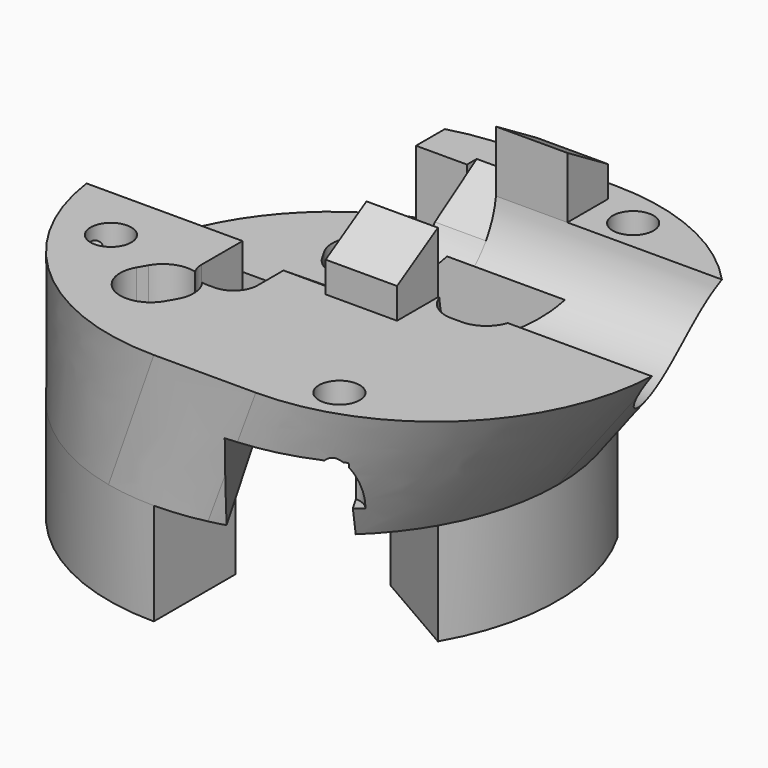
from build123d import *

# Parameters (mm, degrees)
SKETCH093_R           = 22
PAD013_DEPTH          = 10
POLARPATTERN016_COUNT = 3
POCKET057_DEPTH       = 20
POLARPATTERN017_COUNT = 3
SKETCH097_R           = 1.5
POCKET058_DEPTH       = 5
POLARPATTERN018_COUNT = 3
POCKET059_DEPTH       = 40
SKETCH099_W           = 29.059151
SKETCH099_H           = 10
POCKET060_DEPTH       = 8
POLARPATTERN_COUNT    = 3
SKETCH100_W           = 21.271721
SKETCH100_H           = 30.362088
POCKET061_DEPTH       = 8
POCKET062_DEPTH       = 5
SKETCH102_R           = 8
POCKET063_DEPTH       = 33.001
PAD014_DEPTH          = 7
SKETCH104_R           = 1.5
POCKET064_DEPTH       = 5
SKETCH105_R           = 1.5
POCKET065_DEPTH       = 6
SKETCH113_R           = 2
POCKET073_DEPTH       = 10


with BuildPart() as part:
    # Sketch092 → AdditiveLoft007 section 0
    with BuildSketch(Plane.XY.offset(28)):
        with BuildLine():
            ThreePointArc((0, 22), (-22, 0), (0, -22))
            Line((0, -22), (10, -22))
            ThreePointArc((10, -22), (32, 0), (10, 22))
            Line((0, 22), (10, 22))
        make_face()
    # Sketch093 → AdditiveLoft007 section 1
    with BuildSketch(Plane.XY.offset(15)):
        Circle(SKETCH093_R)
    loft()

    # Sketch095 → Pad013 (new body)
    with BuildSketch(Plane(origin=(0, 0, 15), x_dir=(1, 0, 0), z_dir=(0, 0, -1))):
        with BuildLine():
            ThreePointArc((-0.000809, 22), (-11.000386, 19.052336), (-19.0526, 10.999929))
            Line((-19.0526, 10.999929), (-10.392346, 5.999929))
            ThreePointArc((-0.000809, 12), (-6.000386, 10.392082), (-10.392346, 5.999929))
            Line((-0.000809, 22), (-0.000809, 12))
        make_face()
    pad013 = extrude(amount=PAD013_DEPTH)

    # PolarPattern016: Pad013 ×3 about axis
    polarpattern016_axis = Axis((0, 0, 15), (0, 0, -1))
    for i in range(1, POLARPATTERN016_COUNT):
        add(pad013.rotate(polarpattern016_axis, i * 360 / POLARPATTERN016_COUNT))

    # Sketch096 (on Face1 of PolarPattern016) → Pocket057 (cut)
    with BuildSketch(Plane.XY.offset(28)):
        with BuildLine():
            ThreePointArc((14, 3), (11, 0), (14, -3))
            Line((14, -3), (15, -3))
            ThreePointArc((15, -3), (18, 0), (15, 3))
            Line((14, 3), (15, 3))
        make_face()
    pocket057 = extrude(amount=-POCKET057_DEPTH, mode=Mode.SUBTRACT)

    # PolarPattern017: Pocket057 ×3 about axis
    polarpattern017_axis = Axis((0, 0, 28), (0, 0, 1))
    for i in range(1, POLARPATTERN017_COUNT):
        add(pocket057.rotate(polarpattern017_axis, i * 360 / POLARPATTERN017_COUNT), mode=Mode.SUBTRACT)

    # Sketch097 (on Face25 of PolarPattern017) → Pocket058 (cut)
    with BuildSketch(Plane.XY.offset(8)):
        with Locations((15, 0)):
            Circle(SKETCH097_R)
    pocket058 = extrude(amount=-POCKET058_DEPTH, mode=Mode.SUBTRACT)

    # PolarPattern018: Pocket058 ×3 about axis
    polarpattern018_axis = Axis((0, 0, 8), (0, 0, 1))
    for i in range(1, POLARPATTERN018_COUNT):
        add(pocket058.rotate(polarpattern018_axis, i * 360 / POLARPATTERN018_COUNT), mode=Mode.SUBTRACT)

    # Sketch098 (on Face1 of PolarPattern018) → Pocket059 (cut)
    with BuildSketch(Plane.XY.offset(28)):
        with BuildLine():
            Line((-6.5, 17.633001), (-6.5, -8.005965))
            ThreePointArc((-6.5, -8.005965), (-5.807695, -9.677336), (-4.136324, -10.369641))
            Line((-4.136324, -10.369641), (-3.363676, -10.369641))
            ThreePointArc((-3.363676, -10.369641), (-1.692305, -9.677336), (-1, -8.005965))
            Line((-1, -8.005965), (-1, 17.633001))
            Line((-1, 17.633001), (-6.5, 17.633001))
        make_face()
    extrude(amount=-POCKET059_DEPTH, mode=Mode.SUBTRACT)

    # Sketch099 (on Face28 of Pocket059) → Pocket060 (cut)
    with BuildSketch(Plane(origin=(0, 0, 15), x_dir=(1, 0, 0), z_dir=(0, 0, -1))):
        with Locations((-14.529575, 0)):
            Rectangle(SKETCH099_W, SKETCH099_H)
    pocket060 = extrude(amount=-POCKET060_DEPTH, mode=Mode.SUBTRACT)

    # PolarPattern: Pocket060 ×3 about axis
    polarpattern_axis = Axis((0, 0, 15), (0, 0, -1))
    for i in range(1, POLARPATTERN_COUNT):
        add(pocket060.rotate(polarpattern_axis, i * 360 / POLARPATTERN_COUNT), mode=Mode.SUBTRACT)

    # Sketch100 (on Face1 of PolarPattern) → Pocket061 (cut)
    with BuildSketch(Plane.XY.offset(28)):
        with Locations((-16.63586, 12.181044)):
            Rectangle(SKETCH100_W, SKETCH100_H)
    extrude(amount=-POCKET061_DEPTH, mode=Mode.SUBTRACT)

    # Sketch101 (on Face18 of Pocket061) → Pocket062 (cut)
    with BuildSketch(Plane(origin=(-1, 0, 28), x_dir=(0, -1, 0), z_dir=(-1, 0, 0))):
        with BuildLine():
            ThreePointArc((-13.705529, -3.363013), (-7.01069, -6.999993), (-0.306155, -3.380918))
            Line((4.853755, 0), (-0.306155, -3.380918))
            Line((-18.825558, 0), (4.853755, 0))
            Line((-18.825558, 0), (-13.705529, -3.363013))
        make_face()
    extrude(amount=-POCKET062_DEPTH, mode=Mode.SUBTRACT)

    # Sketch102 (on Face50 of Pocket062) → Pocket063 (cut, through all)
    with BuildSketch(Plane(origin=(-1, 0, 28), x_dir=(0, -1, 0), z_dir=(-1, 0, 0))):
        with Locations((-7, 1)):
            Circle(SKETCH102_R)
    extrude(amount=-POCKET063_DEPTH, mode=Mode.SUBTRACT)

    # Sketch103 (on Face4 of Pocket063) → Pad014 (join)
    with BuildSketch(Plane(origin=(4, 0, 28), x_dir=(0, -1, 0), z_dir=(-1, 0, 0))):
        Polygon((-14.937254, 0), (-14.937254, 6), (-19.937254, 3), (-19.937254, 0), align=None)
        Polygon((0.937254, 0), (0.937254, 6), (5.937254, 3), (5.937254, 0), align=None)
    extrude(amount=-PAD014_DEPTH)

    # Sketch104 (on Face86 of Pad014) → Pocket064 (cut)
    with BuildSketch(Plane(origin=(4, 0, 28), x_dir=(0, -1, 0), z_dir=(-1, 0, 0))):
        with Locations((3, 1.2)):
            Circle(SKETCH104_R)
        with Locations((-17, 1.2)):
            Circle(SKETCH104_R)
    extrude(amount=-POCKET064_DEPTH, mode=Mode.SUBTRACT)

    # Sketch105 (on Face55 of Pocket064) → Pocket065 (cut)
    with BuildSketch(Plane(origin=(0, -3, 28), x_dir=(-1, 0, 0), z_dir=(0, 1, 0))):
        with Locations((11.645542, -2.2)):
            Circle(SKETCH105_R)
        with Locations((18.145542, -2.2)):
            Circle(SKETCH105_R)
    extrude(amount=-POCKET065_DEPTH, mode=Mode.SUBTRACT)

    # Sketch113 (on Face26 of Pocket065) → Pocket073 (cut)
    with BuildSketch(Plane.XY.offset(28)):
        with Locations((-15, -8.5)):
            Circle(SKETCH113_R)
        with Locations((15, 18)):
            Circle(SKETCH113_R)
        with Locations((15, -18)):
            Circle(SKETCH113_R)
    extrude(amount=-POCKET073_DEPTH, mode=Mode.SUBTRACT)


with BuildPart() as part_1:
    # Body012 placement: moved
    add(part.part.moved(Location((0, 0, -28))))


solid = part_1.part
